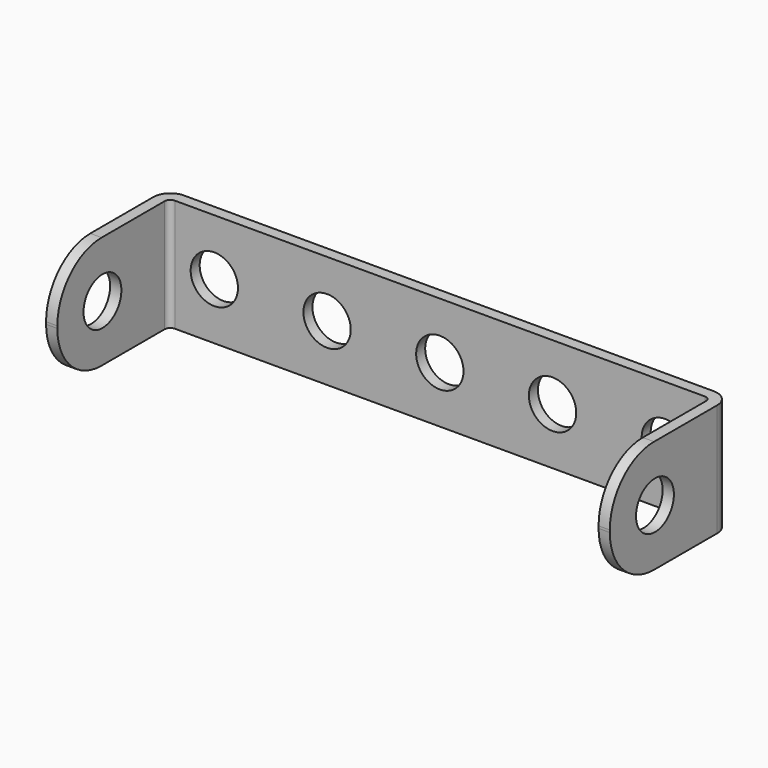
from build123d import *

# Parameters (mm, degrees)
PAD_DEPTH       = 10
FILLET_R        = 4.9
FILLET001_R     = 4.9
FILLET002_R     = 4.9
FILLET003_R     = 4.9
SKETCH001_R     = 2.1
POCKET_DEPTH    = 50.001
SKETCH002_R     = 2.1
POCKET001_DEPTH = 13.401


with BuildPart() as part:
    # Sketch → Pad (new body)
    with BuildSketch(Plane.XY):
        with BuildLine():
            Line((0, 0), (0, 11.9))
            ThreePointArc((1.5, 13.4), (0.43934, 12.96066), (0, 11.9))
            Line((1.5, 13.4), (48.5, 13.4))
            ThreePointArc((50, 11.9), (49.56066, 12.96066), (48.5, 13.4))
            Line((50, 11.9), (50, 0))
            Line((49, 0), (50, 0))
            Line((49, 11.9), (49, 0))
            ThreePointArc((49, 11.9), (48.853553, 12.253553), (48.5, 12.4))
            Line((1.5, 12.4), (48.5, 12.4))
            ThreePointArc((1.5, 12.4), (1.146447, 12.253553), (1, 11.9))
            Line((1, 0), (1, 11.9))
            Line((0, 0), (1, 0))
        make_face()
    extrude(amount=PAD_DEPTH)

    # Fillet
    fillet_edges = [part.edges().sort_by_distance(p)[0] for p in [
        (49.5, 0, 0),
    ]]
    fillet(fillet_edges, radius=FILLET_R)

    # Fillet001
    fillet001_edges = [part.edges().sort_by_distance(p)[0] for p in [
        (0.5, 0, 0),
    ]]
    fillet(fillet001_edges, radius=FILLET001_R)

    # Fillet002
    fillet002_edges = [part.edges().sort_by_distance(p)[0] for p in [
        (49.5, 0, 10),
    ]]
    fillet(fillet002_edges, radius=FILLET002_R)

    # Fillet003
    fillet003_edges = [part.edges().sort_by_distance(p)[0] for p in [
        (0.5, 0, 10),
    ]]
    fillet(fillet003_edges, radius=FILLET003_R)

    # Sketch001 → Pocket (cut, through all)
    with BuildSketch(Plane(origin=(0, 0, 0), x_dir=(0, -1, 0), z_dir=(-1, 0, 0))):
        with Locations((-5, 5)):
            Circle(SKETCH001_R)
    extrude(amount=-POCKET_DEPTH, mode=Mode.SUBTRACT)

    # Sketch002 → Pocket001 (cut, through all)
    with BuildSketch(Plane(origin=(0, 13.4, 0), x_dir=(-1, 0, 0), z_dir=(0, 1, 0))):
        with Locations((-5, 5)):
            Circle(SKETCH002_R)
        with Locations((-15, 5)):
            Circle(SKETCH002_R)
        with Locations((-25, 5)):
            Circle(SKETCH002_R)
        with Locations((-35, 5)):
            Circle(SKETCH002_R)
        with Locations((-45, 5)):
            Circle(SKETCH002_R)
    extrude(amount=-POCKET001_DEPTH, mode=Mode.SUBTRACT)


solid = part.part
